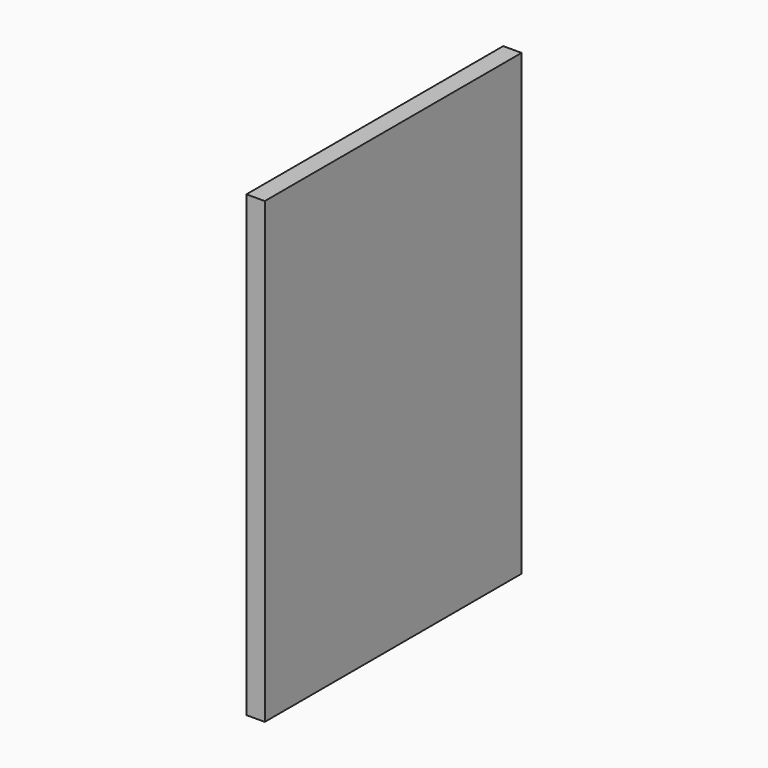
from build123d import *

# Parameters (mm, degrees)
F0_W     = 70
F0_H     = 100
F1_DEPTH = 2
F2_W     = 70
F2_H     = 100
F2_W_2   = 64
F2_H_2   = 94
F3_DEPTH = 2


with BuildPart() as f1:
    # F0 (on Right) → F1 (new body)
    with BuildSketch(Plane.YZ):
        Rectangle(F0_W, F0_H)
    extrude(amount=F1_DEPTH)

    # F2 (on face) → F3 (join)
    with BuildSketch(Plane(origin=(0, 0, 0), x_dir=(0, -1, 0), z_dir=(-1, 0, 0))):
        Rectangle(F2_W, F2_H)
        Rectangle(F2_W_2, F2_H_2, mode=Mode.SUBTRACT)
    extrude(amount=F3_DEPTH)


solid = f1.part
